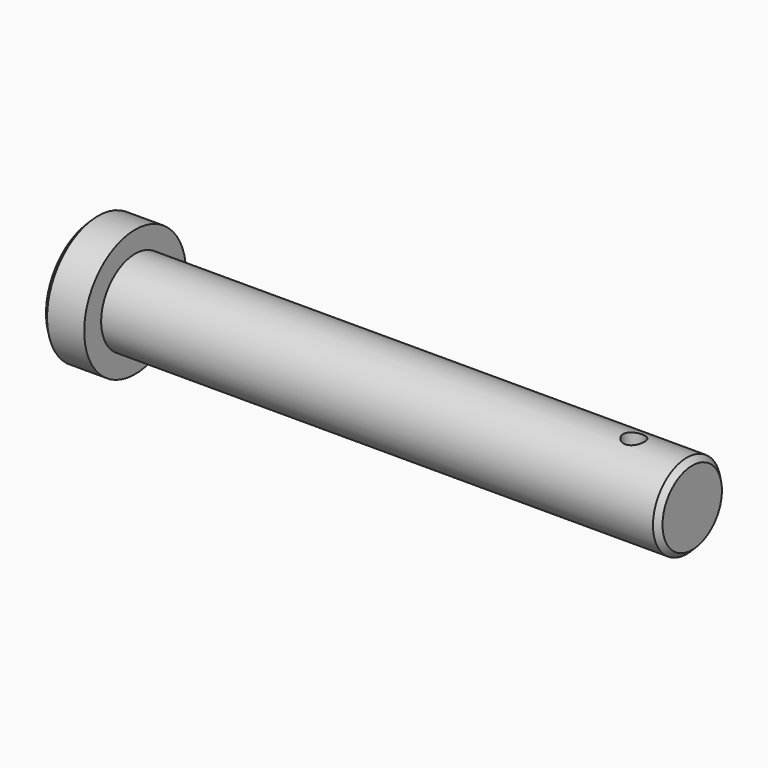
from build123d import *

# Parameters (mm, degrees)
F0_R     = 12
F1_DEPTH = 8
F2_SIZE  = 1
F3_R     = 8
F4_DEPTH = 105
F5_SIZE  = 1
F6_R     = 2
F7_DEPTH = 30


with BuildPart() as f1:
    # F0 (on Right) → F1 (new body)
    with BuildSketch(Plane.YZ):
        Circle(F0_R)
    extrude(amount=F1_DEPTH)

    # F2
    f2_edges = [f1.edges().sort_by_distance(p)[0] for p in [
        (0, -12, 0),
    ]]
    chamfer(f2_edges, length=F2_SIZE)

    # F3 (on face) → F4 (join)
    with BuildSketch(Plane.YZ.offset(8)):
        Circle(F3_R)
    extrude(amount=F4_DEPTH)

    # F5
    f5_edges = [f1.edges().sort_by_distance(p)[0] for p in [
        (113, -8, 0),
    ]]
    chamfer(f5_edges, length=F5_SIZE)

    # F6 (on Top) → F7 (cut, symmetric)
    with BuildSketch(Plane.XY):
        with Locations((102, 0)):
            Circle(F6_R)
    extrude(amount=F7_DEPTH, both=True, mode=Mode.SUBTRACT)


solid = f1.part
